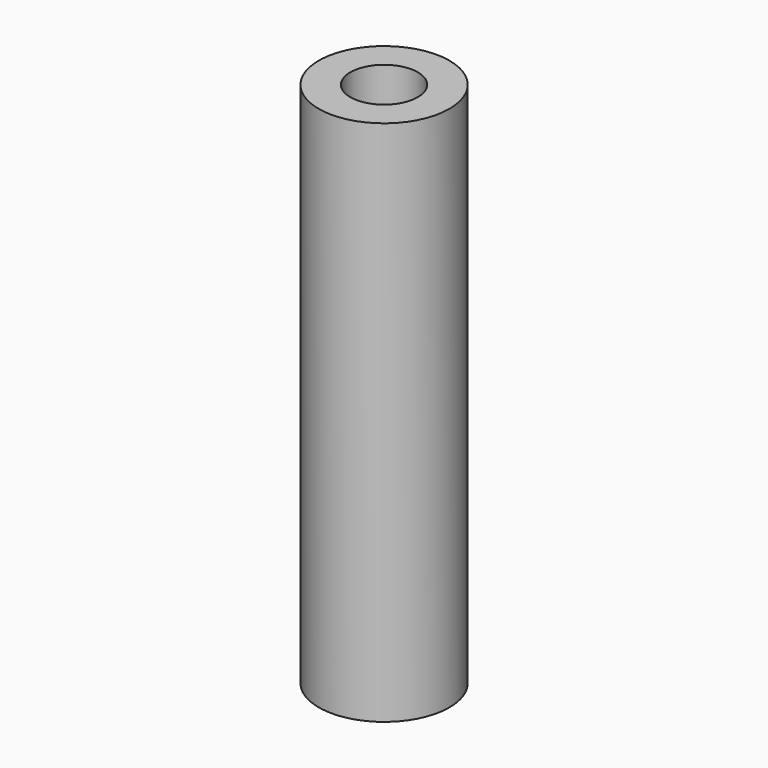
from build123d import *

# Parameters (mm, degrees)
SKETCH_R   = 3.1
SKETCH_R_2 = 1.6
PAD_DEPTH  = 25


with BuildPart() as part:
    # Sketch → Pad (new body)
    with BuildSketch(Plane.XY):
        Circle(SKETCH_R)
        Circle(SKETCH_R_2, mode=Mode.SUBTRACT)
    extrude(amount=PAD_DEPTH)


solid = part.part
